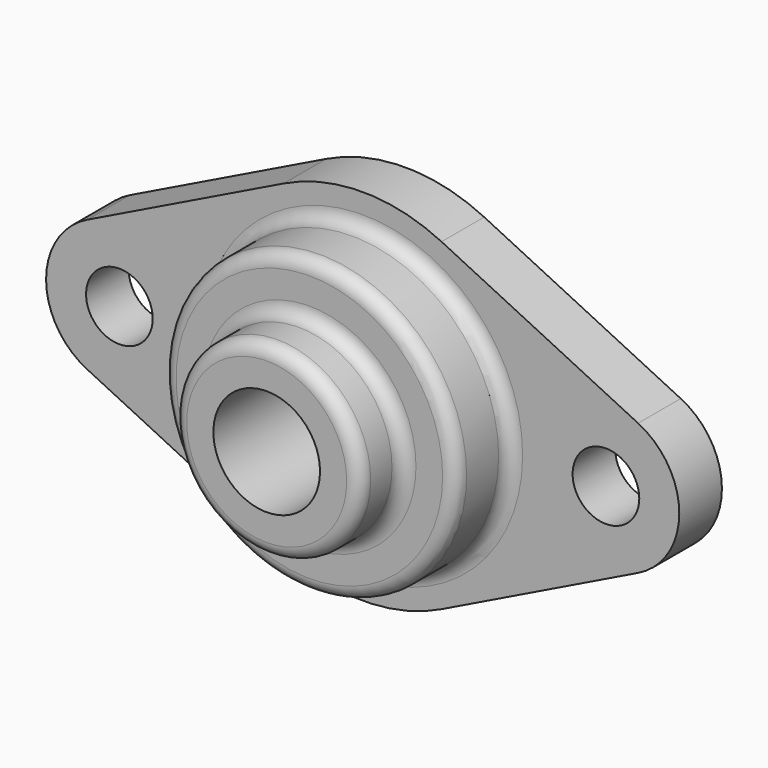
from build123d import *

# Parameters (mm, degrees)
F0_R     = 2.5
F0_R_2   = 4
F1_DEPTH = 4
F2_R     = 11
F2_R_2   = 4
F3_DEPTH = 5
F4_R     = 7
F4_R_2   = 4
F5_DEPTH = 4
F6_R     = 1


with BuildPart() as f1:
    # F0 (on Front) → F1 (new body)
    with BuildSketch(Plane.XZ):
        with BuildLine():
            Line((-20.660959, -4.943407), (-5.917808, -12.133818))
            ThreePointArc((-5.917808, -12.133818), (0, -13.5), (5.917808, -12.133818))
            Line((5.917808, -12.133818), (20.660959, -4.943407))
            ThreePointArc((20.660959, -4.943407), (23.75, 0), (20.660959, 4.943407))
            Line((20.660959, 4.943407), (5.917808, 12.133818))
            ThreePointArc((5.917808, 12.133818), (0, 13.5), (-5.917808, 12.133818))
            Line((-5.917808, 12.133818), (-20.660959, 4.943407))
            ThreePointArc((-20.660959, 4.943407), (-23.75, 0), (-20.660959, -4.943407))
        make_face()
        with Locations((-18.25, 0)):
            Circle(F0_R, mode=Mode.SUBTRACT)
        Circle(F0_R_2, mode=Mode.SUBTRACT)
        with Locations((18.25, 0)):
            Circle(F0_R, mode=Mode.SUBTRACT)
    extrude(amount=F1_DEPTH)

    # F2 (on face) → F3 (join)
    with BuildSketch(Plane.XZ.offset(4)):
        Circle(F2_R)
        Circle(F2_R_2, mode=Mode.SUBTRACT)
    extrude(amount=F3_DEPTH)

    # F4 (on face) → F5 (join)
    with BuildSketch(Plane.XZ.offset(9)):
        Circle(F4_R)
        Circle(F4_R_2, mode=Mode.SUBTRACT)
    extrude(amount=F5_DEPTH)

    # F6
    f6_edges = [f1.edges().sort_by_distance(p)[0] for p in [
        (-11, -9, 0),
        (-7, -9, 0),
        (-11, -4, 0),
        (-7, -13, 0),
    ]]
    fillet(f6_edges, radius=F6_R)


solid = f1.part
